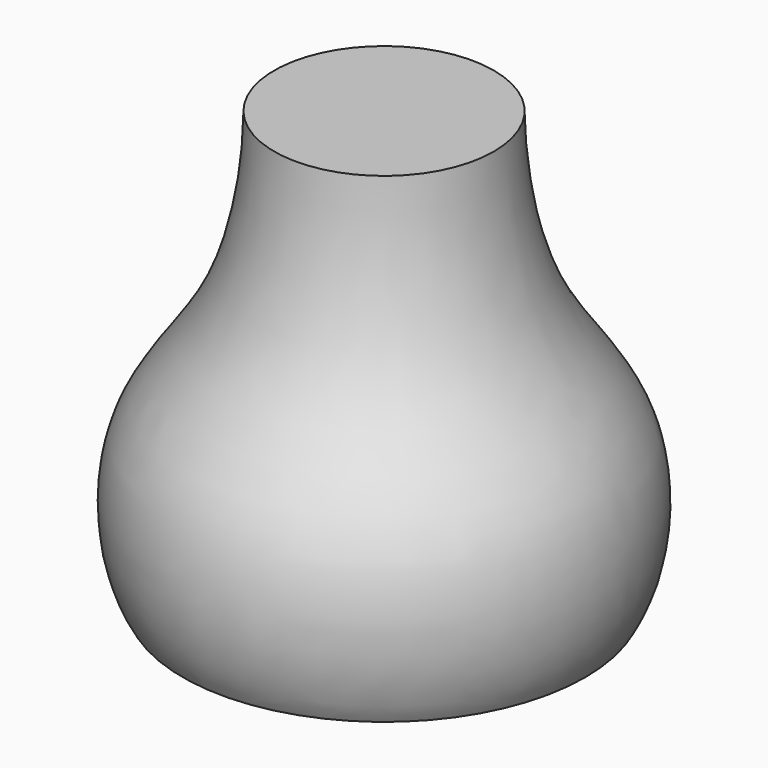
from build123d import *


with BuildPart() as f1:
    # F0 (on Front) → F1 (revolve)
    with BuildSketch(Plane.XZ):
        with BuildLine():
            add(Edge.make_bspline(
                [(22.8066555786, 38.6478751898), (22.9210801557, 26.6573645815), (27.772983018, 0.3876935229), (48.1284253803, -16.8343716137), (47.1425985725, -42.0838465422), (41.9818388733, -51.0191190163), (41.8150890637, -51.2962751091)],
                knots=[0.0942595692, 0.0942595692, 0.0942595692, 0.0942595692, 0.3015044232, 0.5327919573, 0.7702913003, 0.7780035851, 0.7780035851, 0.7780035851, 0.7780035851], degree=3))
            Line((22.8066555786, 38.6478751898), (0, 38.6478751898))
            Line((0, 38.6478751898), (0, -51.2962751091))
            Line((0, -51.2962751091), (41.8150890637, -51.2962751091))
        make_face()
    revolve(axis=Axis((0, 0, -5.0593577325), (0, 0, -1)))


solid = f1.part
